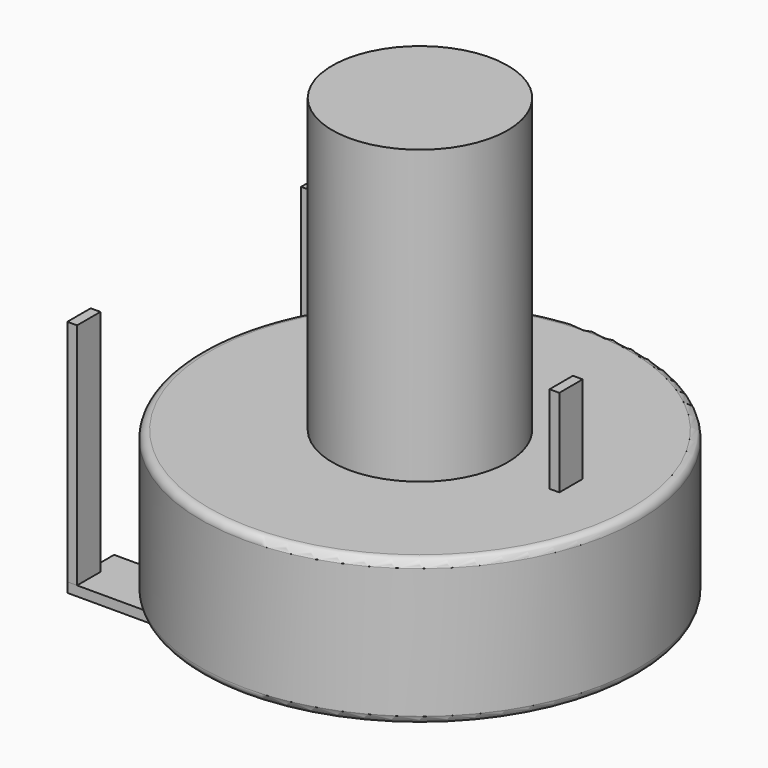
from build123d import *

# Parameters (mm, degrees)
SKETCH003_W       = 0.333334
SKETCH003_H       = 1
PAD002_DEPTH      = 1
PAD002_DEPTH_BACK = 6.833333
SKETCH004_R       = 3
SKETCH004_W       = 4.5
SKETCH004_H       = 1.2
PAD003_DEPTH      = 5
SKETCH_R          = 7.5
SKETCH_R_2        = 3
PAD_DEPTH         = 5
FILLET_R          = 0.275
SKETCH005_W       = 4.366667
SKETCH005_H       = 2
PAD004_DEPTH      = 0.333333
SKETCH006_R       = 3
PAD005_DEPTH      = 10


with BuildPart() as pad002:
    # Sketch003 → Pad002 (new body, two sides)
    with BuildSketch(Plane(origin=(0, 10, 0), x_dir=(1, 0, 0), z_dir=(0, 0, 1))) as pad002_sk:
        Rectangle(SKETCH003_W, SKETCH003_H)
        with Locations((12.5, -5)):
            Rectangle(SKETCH003_W, SKETCH003_H)
        with Locations((0, -10)):
            Rectangle(SKETCH003_W, SKETCH003_H)
    extrude(amount=PAD002_DEPTH)
    extrude(pad002_sk.sketch, amount=-PAD002_DEPTH_BACK)


with BuildPart() as pad003:
    # Sketch004 → Pad003 (new body)
    with BuildSketch(Plane(origin=(0, 10, -2), x_dir=(1, 0, 0), z_dir=(0, 0, 1))):
        with Locations((7.5, -5)):
            Circle(SKETCH004_R)
        with Locations((7.5, -5)):
            Rectangle(SKETCH004_W, SKETCH004_H, mode=Mode.SUBTRACT)
    extrude(amount=-PAD003_DEPTH)


with BuildPart() as fillet_body:
    # Sketch → Pad (new body)
    with BuildSketch(Plane(origin=(0, 10, -2), x_dir=(1, 0, 0), z_dir=(0, 0, 1))):
        with Locations((7.5, -5)):
            Circle(SKETCH_R)
        with Locations((7.5, -5)):
            Circle(SKETCH_R_2, mode=Mode.SUBTRACT)
    extrude(amount=-PAD_DEPTH)

    # Fillet
    fillet_edges = [fillet_body.edges().sort_by_distance(p)[0] for p in [
        (0, 5, -2),
        (0, 5, -7),
    ]]
    fillet(fillet_edges, radius=FILLET_R)


with BuildPart() as pad004:
    # Sketch005 → Pad004 (new body)
    with BuildSketch(Plane(origin=(0, 10, -7.166667), x_dir=(1, 0, 0), z_dir=(0, 0, 1))):
        with Locations((2.016666, -0.5)):
            Rectangle(SKETCH005_W, SKETCH005_H)
        with Locations((2.016666, -9.5)):
            Rectangle(SKETCH005_W, SKETCH005_H)
    extrude(amount=PAD004_DEPTH)


with BuildPart() as pad005:
    # Sketch006 → Pad005 (new body)
    with BuildSketch(Plane(origin=(0, 10, -2), x_dir=(1, 0, 0), z_dir=(0, 0, 1))):
        with Locations((7.5, -5)):
            Circle(SKETCH006_R)
    extrude(amount=PAD005_DEPTH)


solid = Compound([pad002.part, pad003.part, fillet_body.part, pad004.part, pad005.part])
